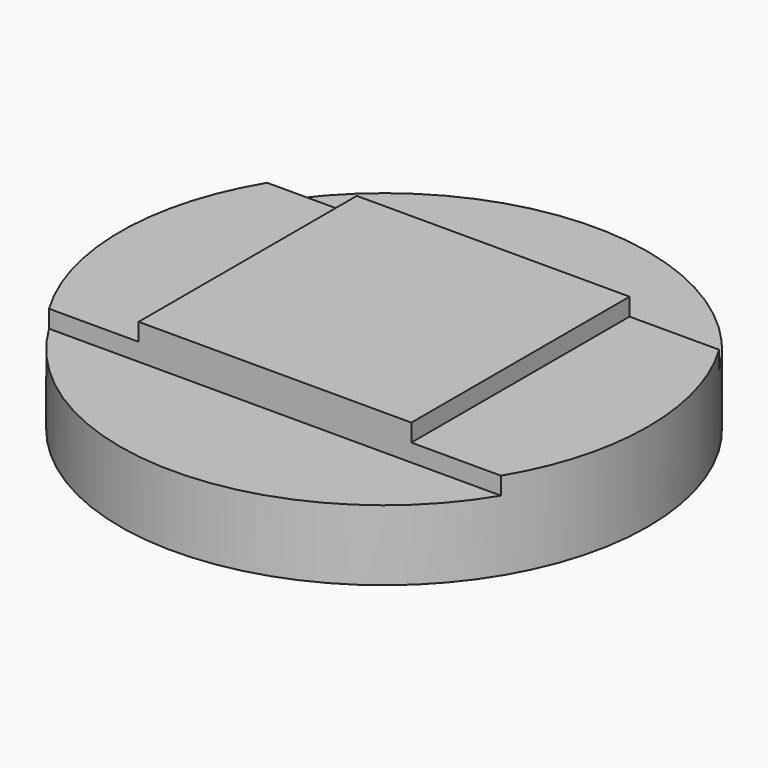
from build123d import *

# Parameters (mm, degrees)
BOX018_W       = 10
BOX018_H       = 10
BOX018_DEPTH   = 0.4
BOX015_W       = 10
BOX015_H       = 10
BOX015_DEPTH   = 0.2
BOX017_W       = 10
BOX017_H       = 10
BOX017_DEPTH   = 0.4
BOX016_W       = 10
BOX016_H       = 10
BOX016_DEPTH   = 0.2
CYLINDER_R     = 3
CYLINDER_DEPTH = 1.2


with BuildPart() as cube018:
    # Box018 → Box018 (new body)
    with BuildSketch(Plane(origin=(-5, -11.55, 0), x_dir=(1, 0, 0), z_dir=(0, 0, 1))):
        with Locations((5, 5)):
            Rectangle(BOX018_W, BOX018_H)
    extrude(amount=BOX018_DEPTH)


with BuildPart() as cube015:
    # Box015 → Box015 (new body)
    with BuildSketch(Plane(origin=(1.55, -5, 0.2), x_dir=(1, 0, 0), z_dir=(0, 0, 1))):
        with Locations((5, 5)):
            Rectangle(BOX015_W, BOX015_H)
    extrude(amount=BOX015_DEPTH)


with BuildPart() as cube017:
    # Box017 → Box017 (new body)
    with BuildSketch(Plane(origin=(-5, 1.55, 0), x_dir=(1, 0, 0), z_dir=(0, 0, 1))):
        with Locations((5, 5)):
            Rectangle(BOX017_W, BOX017_H)
    extrude(amount=BOX017_DEPTH)


with BuildPart() as fusion018:
    # Box016 → Box016 (new body)
    with BuildSketch(Plane(origin=(-11.55, -5, 0.2), x_dir=(1, 0, 0), z_dir=(0, 0, 1))):
        with Locations((5, 5)):
            Rectangle(BOX016_W, BOX016_H)
    extrude(amount=BOX016_DEPTH)

    # Fusion018: union Cube018, Cube015, Cube017
    add(cube018.part)
    add(cube015.part)
    add(cube017.part)


with BuildPart() as fusion018_1:
    # Fusion018 placement: moved
    add(fusion018.part.moved(Location((0, 0, 0.8))))


with BuildPart() as screw_rotate_locker_m3:
    # Cylinder → Cylinder (new body)
    with BuildSketch(Plane.XY):
        Circle(CYLINDER_R)
    extrude(amount=CYLINDER_DEPTH)

    # Cut017021011: cut Fusion018
    add(fusion018_1.part, mode=Mode.SUBTRACT)


solid = screw_rotate_locker_m3.part
